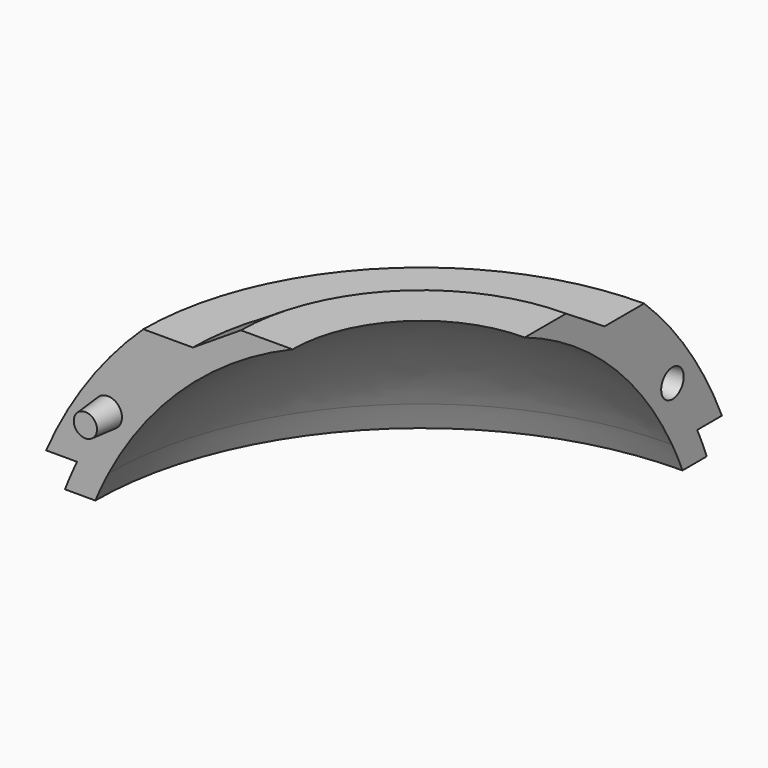
from build123d import *

# Parameters (mm, degrees)
F1_ANGLE = 90
F2_R     = 6.35
F3_DEPTH = 12.7
F3_TAPER = 5
F4_R     = 6.35
F5_DEPTH = 12.7
F5_TAPER = 5


with BuildPart() as f1:
    # F0 (on Front) → F1 (revolve)
    with BuildSketch(Plane.XZ):
        with BuildLine():
            Line((-108.4379373307, 138.5278597593), (-130.7680468253, 138.5278597593))
            ThreePointArc((-130.7680468253, 138.5278597593), (-155.8300717286, 109.5775467195), (-174.5961339778, 76.2))
            Line((-174.5961339778, 76.2), (-160.6437051366, 76.2))
            ThreePointArc((-160.6437051366, 76.2), (-163.4822477804, 69.9027514527), (-166.0740497489, 63.5))
            Line((-166.0740497489, 63.5), (-152.4, 63.5))
            ThreePointArc((-152.4, 63.5), (-149.5666310557, 69.9130379445), (-146.4635449523, 76.2))
            ThreePointArc((-146.4635449523, 76.2), (-111.6816124178, 121.5945206322), (-63.5, 152.4))
            Line((-63.5, 152.4), (-86.7975307453, 152.4))
            Line((-86.7975307453, 152.4), (-108.4379373307, 138.5278597593))
        make_face()
    revolve(axis=Axis((-5.3559339778, 0, 114.3), (0, 0, -1)), revolution_arc=F1_ANGLE)

    # F2 (on face) → F3 (join)
    with BuildSketch(Plane.XZ):
        with Locations((-146.7211129462, 100.4278597593)):
            Circle(F2_R)
    extrude(amount=F3_DEPTH, taper=F3_TAPER)

    # F4 (on face) → F5 (cut)
    with BuildSketch(Plane.YZ.offset(-5.3559339778)):
        with Locations((141.3651789683, 100.4278597593)):
            Circle(F4_R)
    extrude(amount=-F5_DEPTH, taper=F5_TAPER, mode=Mode.SUBTRACT)


solid = f1.part
